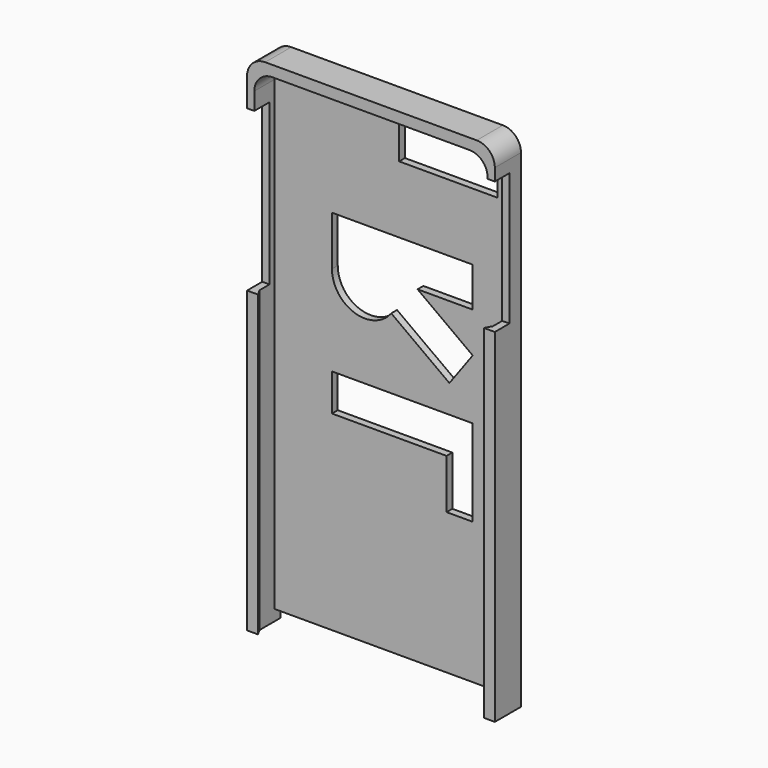
from build123d import *

# Parameters (mm, degrees)
F1_DEPTH  = 2
F2_DEPTH  = 9
F3_W      = 5.0319702644
F3_H      = 36.4959277213
F4_DEPTH  = 5
F5_W      = 5.2322996128
F5_H      = 44.2271307111
F6_DEPTH  = 5
F8_DEPTH  = 10
F9_R      = 5.0696184715
F10_DEPTH = 25
F11_W     = 1.8213601708
F11_H     = 94.6240146787
F12_DEPTH = 1
F13_W     = 1.82136
F13_H     = 82.468239698
F14_DEPTH = 1
F16_DEPTH = 95
F18_DEPTH = 85


with BuildPart() as f1:
    # F0 (on Front) → F1 (new body)
    with BuildSketch(Plane.XZ):
        with BuildLine():
            Line((-32.15, -67.5050175221), (32.15, -67.5050175221))
            Line((32.15, -67.5050175221), (32.15, 60.9949824779))
            ThreePointArc((32.15, 60.9949824779), (30.6855339059, 64.5305163838), (27.15, 65.9949824779))
            Line((27.15, 65.9949824779), (-27.15, 65.9949824779))
            ThreePointArc((-27.15, 65.9949824779), (-30.6855339059, 64.5305163838), (-32.15, 60.9949824779))
            Line((-32.15, 60.9949824779), (-32.15, -67.5050175221))
        make_face()
    extrude(amount=F1_DEPTH)

    # F0 (on Front) → F2 (join)
    with BuildSketch(Plane.XZ):
        with BuildLine():
            Line((32.15, -70.5050175221), (34.15, -70.5050175221))
            Line((34.15, -70.5050175221), (34.15, 63.9949824779))
            ThreePointArc((34.15, 63.9949824779), (32.6855339059, 67.5305163838), (29.15, 68.9949824779))
            Line((29.15, 68.9949824779), (-29.15, 68.9949824779))
            ThreePointArc((-29.15, 68.9949824779), (-32.6855339059, 67.5305163838), (-34.15, 63.9949824779))
            Line((-34.15, 63.9949824779), (-34.15, -70.5050175221))
            Line((-34.15, -70.5050175221), (-32.15, -70.5050175221))
            Line((-32.15, -70.5050175221), (-32.15, -67.5050175221))
            Line((-32.15, -67.5050175221), (-32.15, 60.9949824779))
            ThreePointArc((-32.15, 60.9949824779), (-30.6855339059, 64.5305163838), (-27.15, 65.9949824779))
            Line((-27.15, 65.9949824779), (27.15, 65.9949824779))
            ThreePointArc((27.15, 65.9949824779), (30.6855339059, 64.5305163838), (32.15, 60.9949824779))
            Line((32.15, 60.9949824779), (32.15, -67.5050175221))
            Line((32.15, -67.5050175221), (32.15, -70.5050175221))
        make_face()
    extrude(amount=F2_DEPTH)

    # F3 (on face) → F4 (cut)
    with BuildSketch(Plane.YZ.offset(34.15)):
        with Locations((-6.4840148678, 42.3669610173)):
            Rectangle(F3_W, F3_H)
    extrude(amount=-F4_DEPTH, mode=Mode.SUBTRACT)

    # F5 (on face) → F6 (cut)
    with BuildSketch(Plane(origin=(-34.15, 0, 0), x_dir=(0, -1, 0), z_dir=(-1, 0, 0))):
        with Locations((6.3838501936, 34.0767875314)):
            Rectangle(F5_W, F5_H)
    extrude(amount=-F6_DEPTH, mode=Mode.SUBTRACT)

    # F7 (on face) → F8 (cut)
    with BuildSketch(Plane.XZ.offset(2)):
        with BuildLine():
            Line((2.180054551, 63.9047697186), (2.180054551, 52.2672943771))
            Line((2.180054551, 52.2672943771), (29.2200669646, 52.2672943771))
            Line((29.2200669646, 52.2672943771), (29.2200669646, 58.9047697186))
            ThreePointArc((29.2200669646, 58.9047697186), (27.7556008706, 62.4403036246), (24.2200669646, 63.9047697186))
            Line((24.2200669646, 63.9047697186), (2.180054551, 63.9047697186))
        make_face()
    extrude(amount=-F8_DEPTH, mode=Mode.SUBTRACT)

    # F9 (on face) → F10 (cut)
    with BuildSketch(Plane.XZ.offset(2)):
        Polygon((22.451505065, -4.7073736787), (-16.3505785167, -4.7073736787), (-16.3505785167, -14.9441054091), (15.2370482683, -14.9441054091), (15.2370482683, -28.5930782557), (22.451505065, -28.5930782557), align=None)
        with BuildLine():
            Line((22.451505065, 33.8022336364), (-16.3505785167, 33.8022336364))
            Line((-16.3505785167, 33.8022336364), (-16.3505785167, 20.1532579958))
            ThreePointArc((-16.3505785167, 20.1532579958), (-10.1403629568, 11.5351459717), (0, 14.6992684827))
            Line((0, 14.6992684827), (16.0316545011, 2.9838289004))
            Line((16.0316545011, 2.9838289004), (22.451505065, 11.7688877508))
            Line((22.451505065, 11.7688877508), (7.2426483966, 22.8830520064))
            Line((7.2426483966, 22.8830520064), (22.451505065, 22.8830520064))
            Line((22.451505065, 22.8830520064), (22.451505065, 33.8022336364))
        make_face()
        with Locations((-7.3812524788, 24.0529645234)):
            Circle(F9_R, mode=Mode.SUBTRACT)
        with Locations((-7.3812524788, 24.0529645234)):
            Circle(F9_R)
    extrude(amount=-F10_DEPTH, mode=Mode.SUBTRACT)

    # F11 (on face) → F12 (join)
    with BuildSketch(Plane(origin=(32.15, 0, 0), x_dir=(0, -1, 0), z_dir=(-1, 0, 0))):
        with Locations((8.0893199146, -23.1930101828)):
            Rectangle(F11_W, F11_H)
    extrude(amount=F12_DEPTH)

    # F13 (on face) → F14 (join)
    with BuildSketch(Plane.YZ.offset(-32.15)):
        with Locations((-8.08932, -29.2708976731)):
            Rectangle(F13_W, F13_H)
    extrude(amount=F14_DEPTH)

    # F15 (on face) → F16 (cut)
    with BuildSketch(Plane(origin=(0, 0, -70.5050175221), x_dir=(1, 0, 0), z_dir=(0, 0, -1))):
        Polygon((31.15, 7.1786398292), (32.15, 7.1786398292), (31.15, 9), align=None)
    extrude(amount=-F16_DEPTH, mode=Mode.SUBTRACT)

    # F17 (on face) → F18 (cut)
    with BuildSketch(Plane(origin=(0, 0, -70.5050175221), x_dir=(1, 0, 0), z_dir=(0, 0, -1))):
        Polygon((-31.15, 9), (-32.15, 7.17864), (-31.15, 7.17864), align=None)
    extrude(amount=-F18_DEPTH, mode=Mode.SUBTRACT)


solid = f1.part
